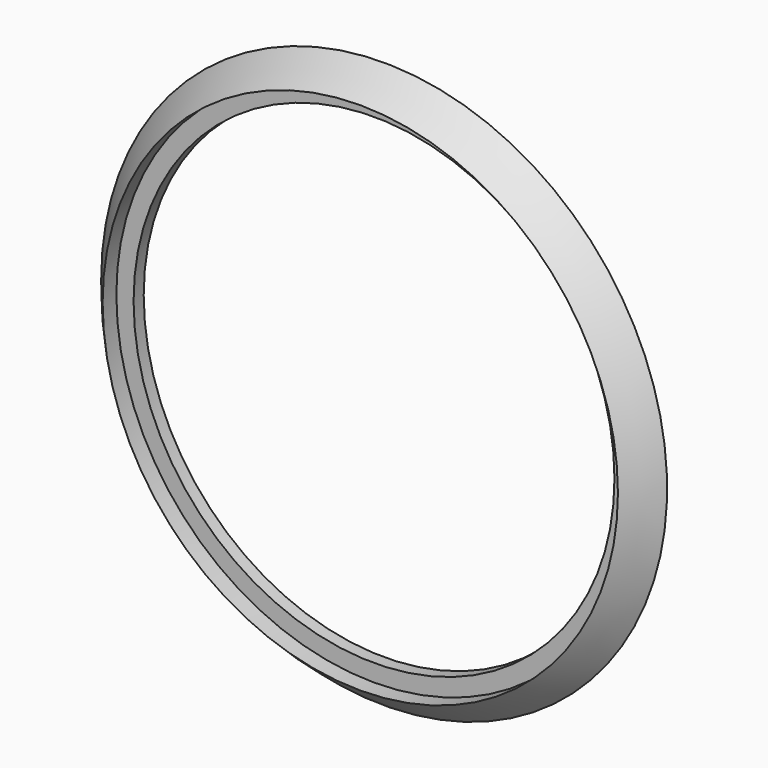
from build123d import *

# Parameters (mm, degrees)
F3_R     = 5
F4_DEPTH = 25


with BuildPart() as f2:
    # F1 (on Top) → F2 (revolve)
    with BuildSketch(Plane.XY):
        with BuildLine():
            Line((-474.995, -25), (-474.995, 0))
            Line((-474.995, 0), (-559.015, 0))
            add(Edge.make_bspline(
                [(-559.015, 0), (-549.1080838565, -12.4834386074), (-533.8393758576, -31.7231269379), (-515.6035381253, -51.8193715079), (-509.015, -58.9297605057)],
                knots=[0, 0, 0, 0, 0.4776609949, 0.7361792659, 0.7361792659, 0.7361792659, 0.7361792659], degree=3))
            Line((-509.015, -58.9297605057), (-509.015, -25))
            Line((-509.015, -25), (-474.995, -25))
        make_face()
    revolve(axis=Axis((0, 1.252685129, 0), (0, 1, 0)))

    # F3 (on Front) → F4 (cut)
    with BuildSketch(Plane.XZ):
        with Locations((-300.0132663995, -429.6382203486)):
            Circle(F3_R)
        with Locations((-222.0709800589, -474.6382203486)):
            Circle(F3_R)
        with Locations((222.0709800589, -474.6382203486)):
            Circle(F3_R)
        with Locations((300.0132663995, -429.6382203486)):
            Circle(F3_R)
        with Locations((522.0842464584, 45)):
            Circle(F3_R)
        with Locations((522.0842464584, -45)):
            Circle(F3_R)
        with Locations((45, 522.0842464584)):
            Circle(F3_R)
        with Locations((-45, 522.0842464584)):
            Circle(F3_R)
    extrude(amount=F4_DEPTH, mode=Mode.SUBTRACT)


solid = f2.part
